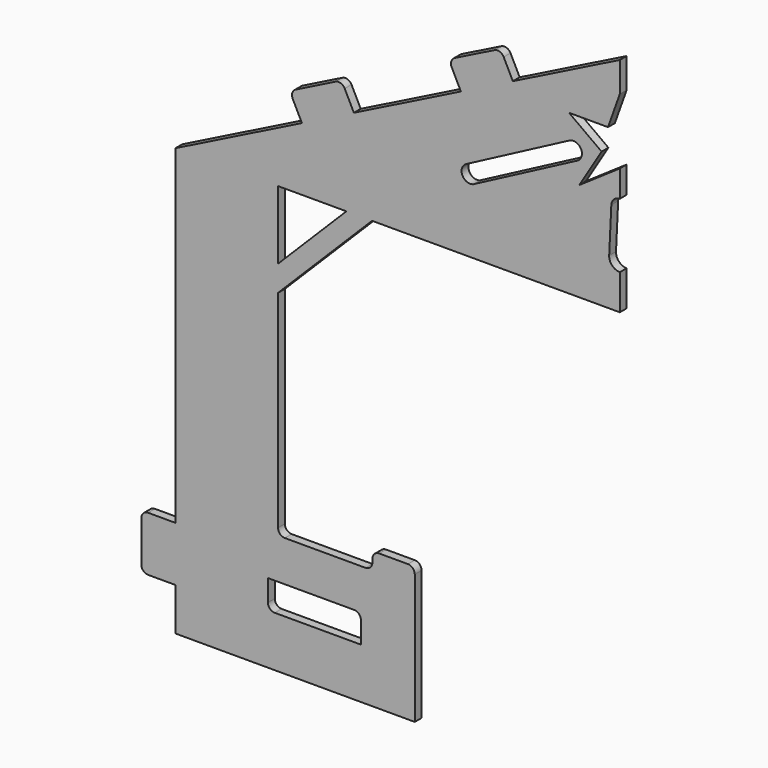
from build123d import *

# Parameters (mm, degrees)
F1_DEPTH  = 3.175
F2_W      = 15.748
F2_H      = 6.35
F2_W_2    = 12.7
F2_H_2    = 20.32
F3_DEPTH  = 3.175
F4_R      = 2.54
F5_W      = 34.5431789756
F5_H      = 10.5385929346
F6_DEPTH  = 3.176
F8_DEPTH  = 3.175
F9_R      = 6.35
F10_R     = 2.54
F12_W     = 206.8448513746
F12_H     = 268.8337340951
F13_DEPTH = 28.5116125674


with BuildPart() as f1:
    # F0 (on Front) → F1 (new body)
    with BuildSketch(Plane.XZ):
        Polygon((0, 82.55), (0, 0), (127, 0), (127, -114.3), (76.2, -114.3), (76.2, -158.75), (165.1, -158.75), (165.1, 0), align=None)
    extrude(amount=-F1_DEPTH)

    # F2 (on face) → F3 (join, through all)
    with BuildSketch(Plane.XZ):
        Polygon((44.3009787702, 71.7587359406), (39.7572886399, 62.67135568), (59.0679716936, 53.0160141532), (63.6116618239, 62.1033944137), align=None)
        Polygon((122.6796335175, 32.5694085669), (103.3689504639, 42.2247500938), (98.8252603336, 33.1373698332), (118.1359433873, 23.4820283064), align=None)
        with Locations((84.074, -111.125)):
            Rectangle(F2_W, F2_H)
        with Locations((171.45, -132.715)):
            Rectangle(F2_W_2, F2_H_2)
        Polygon((127, -25.4), (101.6, 0), (92.075, 0), (127, -34.925), align=None)
    extrude(amount=-F3_DEPTH)

    # F4
    f4_edges = [f1.edges().sort_by_distance(p)[0] for p in [
        (177.8, 1.5875, -142.875),
        (177.8, 1.5875, -122.555),
        (91.948, 1.5875, -107.95),
        (122.679634, 1.5875, 32.569409),
        (63.611662, 1.5875, 62.103394),
        (103.36895, 1.5875, 42.22475),
        (44.300979, 1.5875, 71.758736),
        (76.2, 1.5875, -107.95),
        (91.948, 1.5875, -114.3),
        (127, 1.5875, -114.3),
    ]]
    fillet(f4_edges, radius=F4_R)

    # F5 (on face) → F6 (cut, through all)
    with BuildSketch(Plane.XZ):
        Polygon((4.4021862559, 59.1385737062), (0, 71.4375), (0, 47.0566861331), (15.08702501, 36.7185198719), (6.7811906338, 50.3608770669), (18.8778863964, 59.1385737062), align=None)
        with BuildLine():
            Line((15.7880578146, 44.4895698524), (54.4423557636, 24.1893212834))
            ThreePointArc((54.4423557636, 24.1893212834), (58.4390000122, 25.6523165849), (57.3894998938, 29.7768856537))
            Line((57.3894998938, 29.7768856537), (18.7659755805, 50.0979274743))
            ThreePointArc((18.7659755805, 50.0979274743), (14.4600820897, 48.7894806012), (15.7880578146, 44.4895698524))
        make_face()
        with BuildLine():
            Line((3.9643459731, 17.3010716776), (3.1714767785, 34.1172288808))
            ThreePointArc((3.1714767785, 34.1172288808), (2.1915586368, 36.2650197343), (0, 37.1426961303))
            Line((0, 37.1426961303), (0, 13.1454057395))
            ThreePointArc((0, 13.1454057395), (2.871654505, 14.3747074435), (3.9643459731, 17.3010716776))
        make_face()
        with Locations((113.4665496647, -134.7029581666)):
            Rectangle(F5_W, F5_H)
    extrude(amount=-F6_DEPTH, mode=Mode.SUBTRACT)

    # F7 (on face) → F8 (join)
    with BuildSketch(Plane.YZ.offset(165.1)):
        Polygon((28.5750000001, -10.4543957859), (3.175, 0), (3.1750000001, -122.555), (25.9204413742, -115.6956553459), (28.5750000001, -90.5212983489), (24.2223335625, -68.0457651615), (28.5750000001, -50.012152642), (20.3100345423, -30.5349558611), align=None)
    extrude(amount=-F8_DEPTH)

    # F9
    f9_edges = [f1.edges().sort_by_distance(p)[0] for p in [
        (163.5125, 28.575, -10.454396),
        (163.5125, 20.310035, -30.534956),
        (163.5125, 28.575, -50.012153),
        (163.5125, 24.222334, -68.045765),
        (163.5125, 28.575, -90.521298),
        (163.5125, 25.920441, -115.695655),
    ]]
    fillet(f9_edges, radius=F9_R)

    # F10
    f10_edges = [f1.edges().sort_by_distance(p)[0] for p in [
        (96.19496, 1.5875, -129.433662),
        (130.738139, 1.5875, -139.972255),
    ]]
    fillet(f10_edges, radius=F10_R)

    # F11: F1 across plane


with BuildPart() as f1_1:
    add(f1.part)
    add(f1.part.mirror(Plane.YZ))

    # F12 (on Front) → F13 (cut, through all)
    with BuildSketch(Plane.XZ):
        with Locations((103.4224256873, -33.929746598)):
            Rectangle(F12_W, F12_H)
    extrude(amount=-F13_DEPTH, mode=Mode.SUBTRACT)


solid = f1_1.part
